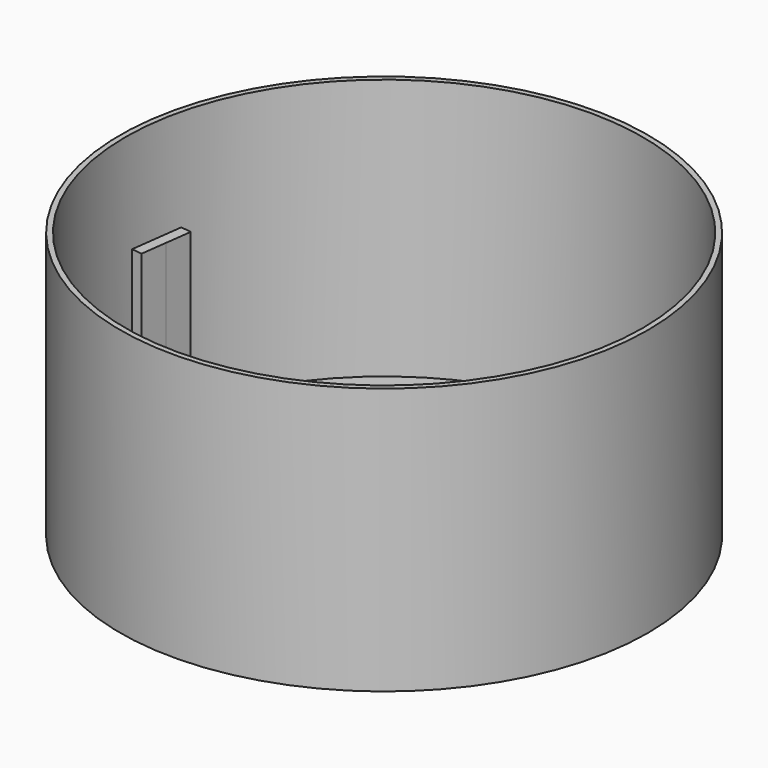
from build123d import *

# Parameters (mm, degrees)
F0_R     = 49.5
F0_R_2   = 48.5
F1_DEPTH = 50
F0_R_3   = 5.25
F2_DEPTH = 1
F4_DEPTH = 30


with BuildPart() as f1:
    # F0 (on Top) → F1 (new body)
    with BuildSketch(Plane.XY):
        Circle(F0_R)
        Circle(F0_R_2, mode=Mode.SUBTRACT)
    extrude(amount=F1_DEPTH)

    # F0 (on Top) → F2 (join)
    with BuildSketch(Plane.XY):
        Circle(F0_R_2)
        Circle(F0_R_3, mode=Mode.SUBTRACT)
    extrude(amount=F2_DEPTH)

    # F3 (on face) → F4 (join)
    with BuildSketch(Plane.XY.offset(1)):
        Polygon((-47.02107, 11.233586), (-47.673701, 6.276362), (-45.690812, 6.015309), (-45.038181, 10.972534), align=None)
        Polygon((-47.673701, 6.276362), (-48.326332, 1.319138), (-46.343443, 1.058085), (-45.690812, 6.015309), align=None)
    extrude(amount=F4_DEPTH)


solid = f1.part
